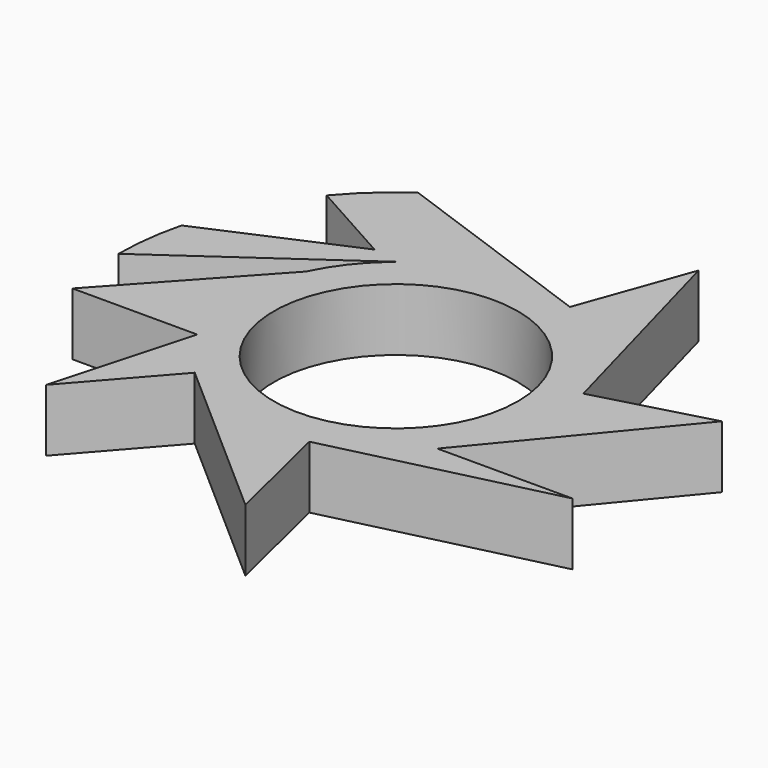
from build123d import *

# Parameters (mm, degrees)
F0_R     = 11.176
F1_DEPTH = 5.715


with BuildPart() as f1:
    # F0 (on Top) → F1 (new body)
    with BuildSketch(Plane.XY):
        with BuildLine():
            Line((-22.308143, -19.081387), (-15.183068, -10.971804))
            ThreePointArc((-15.183068, -10.971804), (-17.206272, -8.790931), (-18.745606, -6.245345))
            Line((-18.745606, -6.245345), (-22.308143, -19.081387))
        make_face()
        with BuildLine():
            ThreePointArc((-18.745606, -6.245345), (-20.148262, -1.5e-05), (-18.745606, 6.245315))
            Line((-18.745606, 6.245315), (-24.45455, -1.5e-05))
            Line((-24.45455, -1.5e-05), (-30.163494, -6.245345))
            Line((-30.163494, -6.245345), (-18.745606, -6.245345))
        make_face()
        with BuildLine():
            Line((0.428421, -24.688048), (-2.109544, -14.195634))
            ThreePointArc((-2.109544, -14.195634), (-9.039997, -14.180243), (-15.183068, -10.971804))
            Line((-15.183068, -10.971804), (0.428421, -24.688048))
        make_face()
        with BuildLine():
            Line((18.089055, -9.309881), (5.709845, -9.309881))
            ThreePointArc((5.709845, -9.309881), (2.195818, -12.386002), (-2.109544, -14.195634))
            Line((-2.109544, -14.195634), (18.089055, -9.309881))
        make_face()
        with BuildLine():
            ThreePointArc((-0.595818, 13.741485), (5.181678, 9.913698), (8.544174, 3.85358))
            Line((8.544174, 3.85358), (3.060988, 23.898246))
            Line((3.060988, 23.898246), (-0.595818, 13.741485))
        make_face()
        with BuildLine():
            ThreePointArc((-13.941137, 11.949116), (-7.48736, 14.475016), (-0.595818, 13.741485))
            Line((-0.595818, 13.741485), (-20.148262, 20.781082))
            Line((-20.148262, 20.781082), (-13.941137, 11.949116))
        make_face()
        with BuildLine():
            ThreePointArc((8.544174, 3.85358), (8.931769, 1.944083), (9.061738, -1.5e-05))
            ThreePointArc((9.061738, -1.5e-05), (8.198238, -4.947459), (5.709845, -9.309881))
            Line((5.709845, -9.309881), (18.956626, 6.701889))
            Line((18.956626, 6.701889), (8.544174, 3.85358))
        make_face()
        with BuildLine():
            Line((-30.943262, -1.5e-05), (-13.941137, 11.949116))
            Line((-13.941137, 11.949116), (-20.148262, 20.781082))
            ThreePointArc((-20.148262, 20.781082), (-22.701085, 18.728816), (-24.968582, 16.365099))
            Line((-24.968582, 16.365099), (-17.044699, 11.949116))
            Line((-17.044699, 11.949116), (-30.163494, 6.245315))
            ThreePointArc((-30.163494, 6.245315), (-30.747566, 3.146896), (-30.943262, -1.5e-05))
        make_face()
        with BuildLine():
            ThreePointArc((5.709845, -9.309881), (8.198238, -4.947459), (9.061738, -1.5e-05))
            ThreePointArc((9.061738, -1.5e-05), (8.931769, 1.944083), (8.544174, 3.85358))
            ThreePointArc((8.544174, 3.85358), (5.181678, 9.913698), (-0.595818, 13.741485))
            ThreePointArc((-0.595818, 13.741485), (-7.48736, 14.475016), (-13.941137, 11.949116))
            ThreePointArc((-13.941137, 11.949116), (-16.713566, 9.409041), (-18.745606, 6.245315))
            ThreePointArc((-18.745606, 6.245315), (-20.148262, -1.5e-05), (-18.745606, -6.245345))
            ThreePointArc((-18.745606, -6.245345), (-17.206272, -8.790931), (-15.183068, -10.971804))
            ThreePointArc((-15.183068, -10.971804), (-9.039997, -14.180243), (-2.109544, -14.195634))
            ThreePointArc((-2.109544, -14.195634), (2.195818, -12.386002), (5.709845, -9.309881))
        make_face()
        with Locations((-5.543262, -1.5e-05)):
            Circle(F0_R, mode=Mode.SUBTRACT)
    extrude(amount=F1_DEPTH)


solid = f1.part
